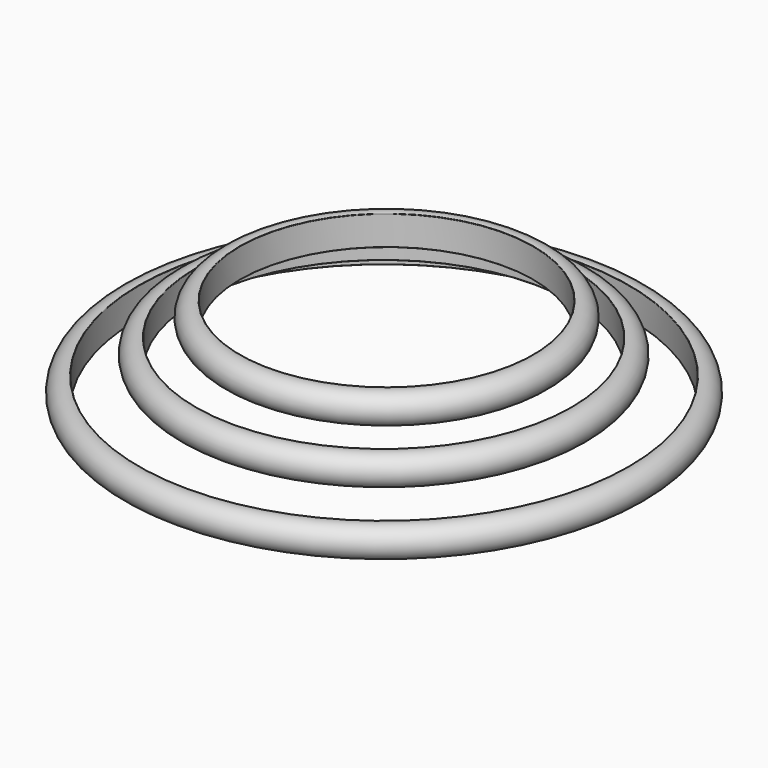
from build123d import *


with BuildPart() as f1:
    # F0 (on Front) → F1 (revolve)
    with BuildSketch(Plane.XZ):
        with BuildLine():
            ThreePointArc((-30.515583, 2.456885), (-30.493317, 2.471111), (-30.484652, 2.496073))
            Line((-30.484652, 2.496073), (-30.484652, 5.433145))
            ThreePointArc((-30.484652, 5.433145), (-30.493317, 5.458107), (-30.515583, 5.472333))
            ThreePointArc((-30.515583, 5.472333), (-32.425769, 3.964609), (-30.515583, 2.456885))
        make_face()
    revolve(axis=Axis((-5.484652, 0, 2.798771), (0, 0, -1)))


with BuildPart() as f3:
    # F2 (on Front) → F3 (revolve)
    with BuildSketch(Plane.XZ):
        with BuildLine():
            ThreePointArc((-26.020454, 5.868699), (-25.998188, 5.882925), (-25.989523, 5.907887))
            Line((-25.989523, 5.907887), (-25.989523, 8.844959))
            ThreePointArc((-25.989523, 8.844959), (-25.998188, 8.869921), (-26.020454, 8.884147))
            ThreePointArc((-26.020454, 8.884147), (-27.93064, 7.376423), (-26.020454, 5.868699))
        make_face()
    revolve(axis=Axis((-6.819524, 0, 6.650587), (0, 0, -1)))


with BuildPart() as f3_1:
    # F4: moved
    add(f3.part.moved(Location((0.8, 0, 0))))


with BuildPart() as f3_2:
    # F5: moved
    add(f3_1.part.moved(Location((1.1, 0, 0))))


with BuildPart() as f3_3:
    # F6: moved
    add(f3_2.part.moved(Location((-0.6, 0, 0))))


with BuildPart() as f8:
    # F7 (on Front) → F8 (revolve)
    with BuildSketch(Plane.XZ):
        with BuildLine():
            ThreePointArc((-20.220628, 9.315138), (-20.198362, 9.329363), (-20.189697, 9.354325))
            Line((-20.189697, 9.354325), (-20.189697, 12.291398))
            ThreePointArc((-20.189697, 12.291398), (-20.198362, 12.31636), (-20.220628, 12.330585))
            ThreePointArc((-20.220628, 12.330585), (-22.130814, 10.822862), (-20.220628, 9.315138))
        make_face()
    revolve(axis=Axis((-5.220628, 0, 17.351193), (0, 0, 1)))


solid = Compound([f1.part, f3_3.part, f8.part])
